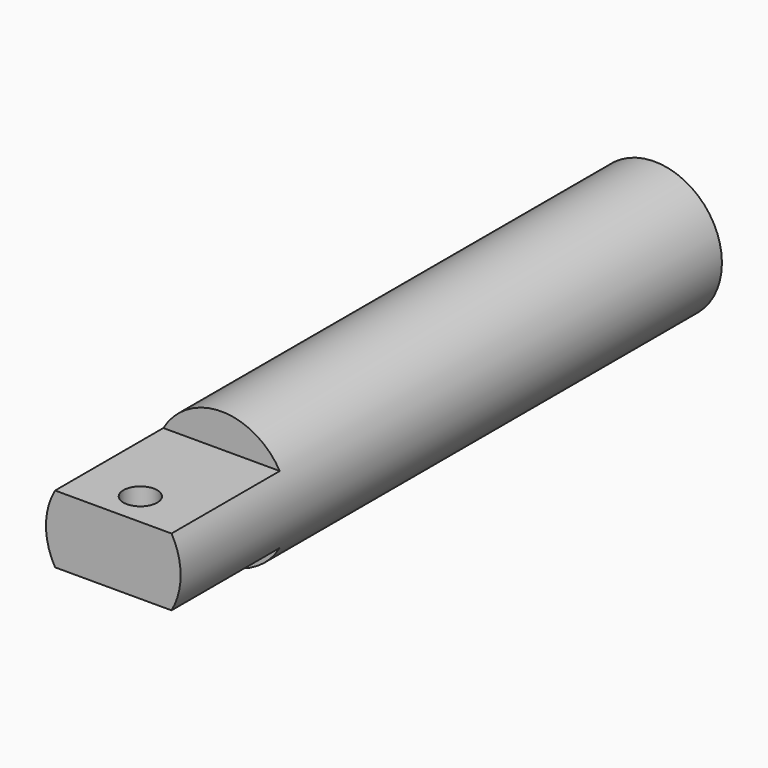
from build123d import *

# Parameters (mm, degrees)
F0_R          = 0.4975
F1_DEPTH      = 2.5
F2_W          = 1
F2_H          = 0.4777815267
F2_H_2        = 0.6547255735
F3_DEPTH      = 0.4985
F3_DEPTH_BACK = 0.4985
F6_R          = 0.125
F7_DEPTH      = 25


with BuildPart() as f1:
    # F0 (on Front) → F1 (new body, symmetric)
    with BuildSketch(Plane.XZ):
        Circle(F0_R)
    extrude(amount=F1_DEPTH, both=True)

    # F2 (on Right) → F3 (cut, two sides)
    with BuildSketch(Plane.YZ) as f3_sk:
        with Locations((-2, 0.4888907634)):
            Rectangle(F2_W, F2_H)
        with Locations((-2, -0.5773627867)):
            Rectangle(F2_W, F2_H_2)
    extrude(amount=-F3_DEPTH, mode=Mode.SUBTRACT)
    extrude(f3_sk.sketch, amount=F3_DEPTH_BACK, mode=Mode.SUBTRACT)

    # F4 (on Right) → F5 (revolve, cut)
    with BuildSketch(Plane.YZ):
        with BuildLine():
            Line((2.5, 0), (2.5, 0.4330127019))
            ThreePointArc((2.5, 0.4330127019), (2.3169872981, 0.25), (2.25, 0))
            Line((2.25, 0), (2.5, 0))
        make_face()
    revolve(axis=Axis((0, 2.375, 0), (0, -1, 0)), mode=Mode.SUBTRACT)

    # F6 (on face) → F7 (cut)
    with BuildSketch(Plane.XY.offset(0.25)):
        with Locations((0, -2.25)):
            Circle(F6_R)
    extrude(amount=-F7_DEPTH, mode=Mode.SUBTRACT)


solid = f1.part
